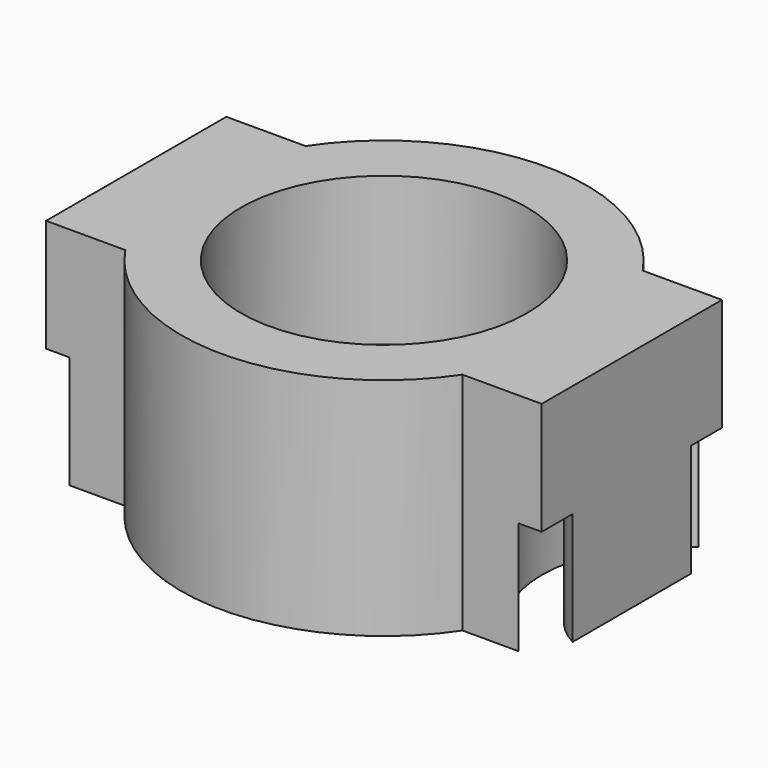
from build123d import *

# Parameters (mm, degrees)
F0_R     = 6.35
F1_DEPTH = 5
F3_DEPTH = 5
F5_DEPTH = 25
F6_R     = 6.35
F6_R_2   = 5.5
F7_DEPTH = 3.41


with BuildPart() as f1:
    # F0 (on Top) → F1 (new body, symmetric)
    with BuildSketch(Plane.XY):
        with BuildLine():
            Line((-11, -5), (-7.483315, -5))
            ThreePointArc((-7.483315, -5), (0, -9), (7.483315, -5))
            Line((7.483315, -5), (11, -5))
            Line((11, -5), (11, 5))
            Line((11, 5), (7.483315, 5))
            ThreePointArc((7.483315, 5), (0, 9), (-7.483315, 5))
            Line((-7.483315, 5), (-11, 5))
            Line((-11, 5), (-11, -5))
        make_face()
        Circle(F0_R, mode=Mode.SUBTRACT)
    extrude(amount=F1_DEPTH, both=True)

    # F2 (on face) → F3 (cut)
    with BuildSketch(Plane(origin=(0, 0, -5), x_dir=(1, 0, 0), z_dir=(0, 0, -1))):
        with BuildLine():
            ThreePointArc((-11, 3.282761), (-9.021953, 0), (-11, -3.282761))
            Line((-11, -3.282761), (-11, -5))
            Line((-11, -5), (-9.971136, -5))
            ThreePointArc((-9.971136, -5), (-7.021953, 0), (-9.971136, 5))
            Line((-9.971136, 5), (-11, 5))
            Line((-11, 5), (-11, 3.282761))
        make_face()
        with BuildLine():
            ThreePointArc((9.971136, 5), (7.021953, 0), (9.971136, -5))
            Line((9.971136, -5), (11, -5))
            Line((11, -5), (11, -3.282761))
            ThreePointArc((11, -3.282761), (9.021953, 0), (11, 3.282761))
            Line((11, 3.282761), (11, 5))
            Line((11, 5), (9.971136, 5))
        make_face()
    extrude(amount=-F3_DEPTH, mode=Mode.SUBTRACT)

    # F4 (on face) → F5 (cut)
    with BuildSketch(Plane.XY.offset(5)):
        with BuildLine():
            ThreePointArc((3.670103, 8.217685), (0, 9), (-3.670103, 8.217685))
            Line((-3.670103, 8.217685), (3.670103, 8.217685))
        make_face()
        with BuildLine():
            Line((3.670103, -8.217685), (-3.670103, -8.217685))
            ThreePointArc((-3.670103, -8.217685), (0, -9), (3.670103, -8.217685))
        make_face()
    extrude(amount=F5_DEPTH, mode=Mode.SUBTRACT)


with BuildPart() as f7:
    # F6 (on face) → F7 (new body)
    with BuildSketch(Plane(origin=(0, 0, -5), x_dir=(1, 0, 0), z_dir=(0, 0, -1))):
        Circle(F6_R)
        Circle(F6_R_2, mode=Mode.SUBTRACT)
    extrude(amount=-F7_DEPTH)


solid = Compound([f1.part, f7.part])
